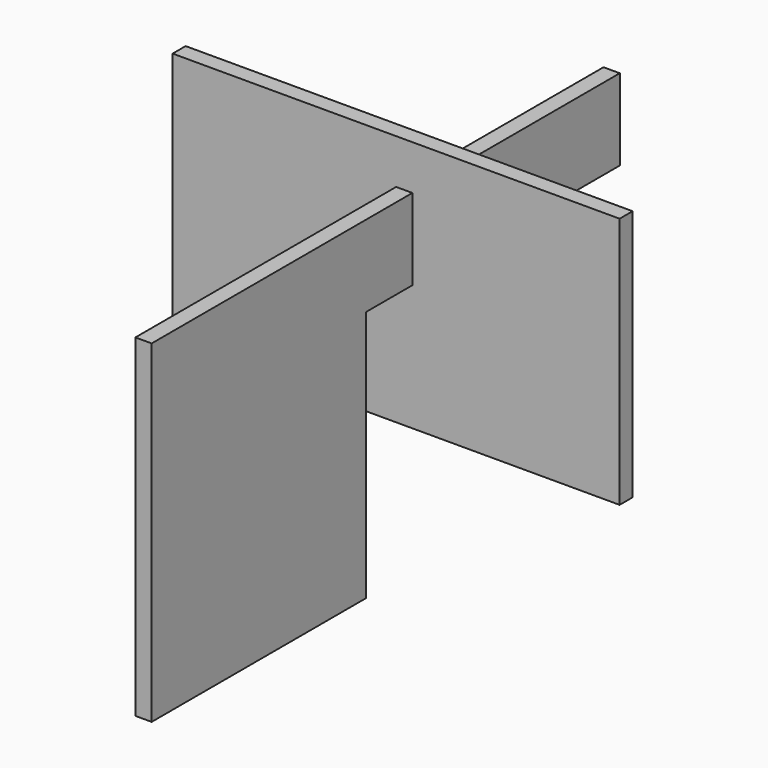
from build123d import *

# Parameters (mm, degrees)
F1_DEPTH = 20
F2_W     = 550
F2_H     = 310
F3_DEPTH = 20


with BuildPart() as f1:
    # F0 (on Right) → F1 (new body)
    with BuildSketch(Plane.YZ):
        Polygon((298.961514, 100), (-421.038486, 100), (-421.038486, -310), (-91.038486, -310), (-91.038486, 0), (298.961514, 0), align=None)
    extrude(amount=F1_DEPTH)


with BuildPart() as f3:
    # F2 (on Front) → F3 (new body)
    with BuildSketch(Plane.XZ):
        Rectangle(F2_W, F2_H)
    extrude(amount=F3_DEPTH)


solid = Compound([f1.part, f3.part])
